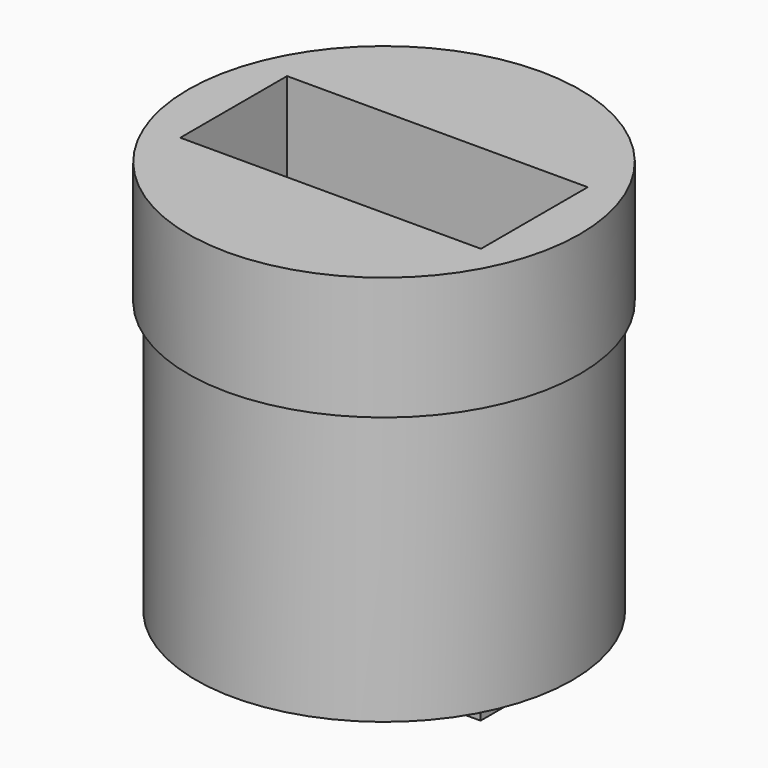
from build123d import *

# Parameters (mm, degrees)
F1_R      = 9.3853456038
F1_W      = 14.4104864448
F1_H      = 6.3965022564
F2_DEPTH  = 5.9
F4_R      = 9.0168673832
F4_W      = 14.4104864448
F4_H      = 6.3965022564
F5_DEPTH  = 13
F3_W      = 14.4104864448
F3_H      = 0.9191088029
F6_DEPTH  = 14
F8_DEPTH  = 5.5
F10_DEPTH = 13.7
F11_W     = 0.7204534382
F11_H     = 14
F12_DEPTH = 5
F13_W     = 12.9795465618
F13_H     = 0.8269683793
F14_DEPTH = 5


with BuildPart() as f2:
    # F1 (on face) → F2 (new body)
    with BuildSketch(Plane.XY):
        with Locations((-7.2333719581, -3.1627740245)):
            Circle(F1_R)
        with Locations((-7.2052432224, -3.1982511282)):
            Rectangle(F1_W, F1_H, mode=Mode.SUBTRACT)
    extrude(amount=F2_DEPTH)

    # F4 (on face) → F5 (join)
    with BuildSketch(Plane.XY):
        with Locations((-7.186296396, -3.2088013832)):
            Circle(F4_R)
        with Locations((-7.2052432224, -3.1982511282)):
            Rectangle(F4_W, F4_H, mode=Mode.SUBTRACT)
    extrude(amount=-F5_DEPTH)

    # F3 (on face) → F6 (join)
    with BuildSketch(Plane(origin=(0, 0, 0), x_dir=(1, 0, 0), z_dir=(0, 0, -1))):
        with Locations((-7.2052432224, 0.4595544015)):
            Rectangle(F3_W, F3_H)
    extrude(amount=F6_DEPTH)

    # F7 (on face) → F8 (join)
    with BuildSketch(Plane.XZ.offset(0.9191088029)):
        Polygon((-0.701982528, -14), (0, -14), (0, -13), (0, 0), (-0.701982528, 0), align=None)
    extrude(amount=F8_DEPTH)

    # F9 (on face) → F10 (join)
    with BuildSketch(Plane(origin=(-0.701982528, 0, 0), x_dir=(0, -1, 0), z_dir=(-1, 0, 0))):
        Polygon((6.3965022564, -13), (6.3965022564, 0), (5.576975178, 0), (5.576975178, -14), (6.3965022564, -14), align=None)
    extrude(amount=F10_DEPTH)

    # F11 (on face) → F12 (join)
    with BuildSketch(Plane(origin=(0, -5.576975178, 0), x_dir=(-1, 0, 0), z_dir=(0, 1, 0))):
        with Locations((14.0417558089, -7)):
            Rectangle(F11_W, F11_H)
    extrude(amount=F12_DEPTH)

    # F13 (on face) → F14 (join)
    with BuildSketch(Plane(origin=(0, -5.576975178, 0), x_dir=(-1, 0, 0), z_dir=(0, 1, 0))):
        with Locations((7.1917558089, -13.5865158103)):
            Rectangle(F13_W, F13_H)
    extrude(amount=F14_DEPTH)


solid = f2.part
